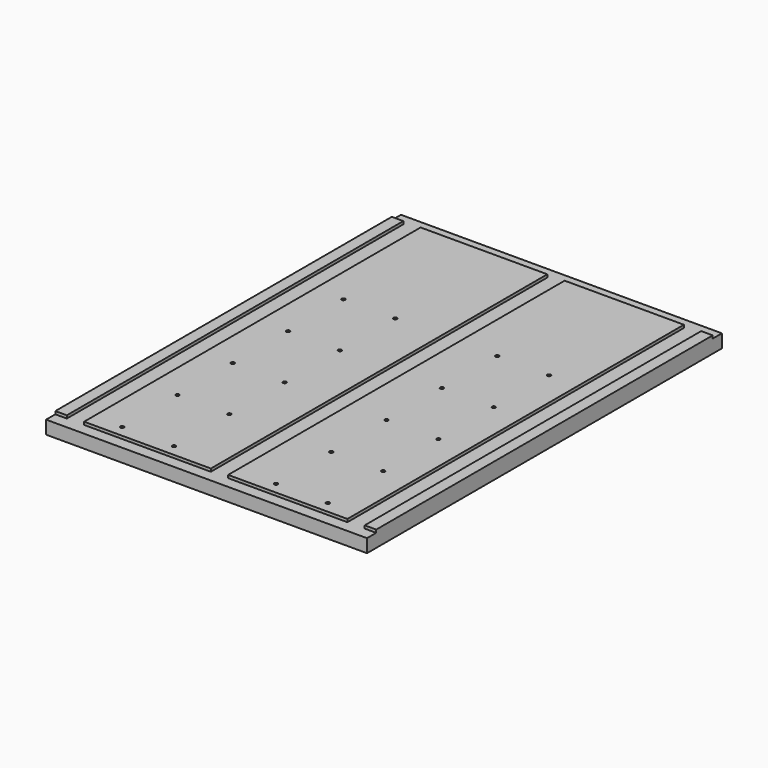
from build123d import *

# Parameters (mm, degrees)
SKETCH_W        = 557
SKETCH_H        = 770
PAD_DEPTH       = 28
SKETCH001_W     = 220
SKETCH001_H     = 730
SKETCH001_W_2   = 207
POCKET_DEPTH    = 5
SKETCH002_R     = 3
POCKET001_DEPTH = 20


with BuildPart() as part:
    # Sketch → Pad (new body)
    with BuildSketch(Plane.XY):
        with Locations((278.5, 385)):
            Rectangle(SKETCH_W, SKETCH_H)
    extrude(amount=PAD_DEPTH)

    # Sketch001 (on Face6 of Pad) → Pocket (cut)
    with BuildSketch(Plane.XY.offset(28)):
        Polygon((0, 770), (557, 770), (557, 750), (537, 750), (537, 20), (557, 20), (557, 0), (0, 0), (0, 20), (20, 20), (20, 750), (0, 750), align=None)
        with Locations((160, 385)):
            Rectangle(SKETCH001_W, SKETCH001_H, mode=Mode.SUBTRACT)
        with Locations((403.5, 385)):
            Rectangle(SKETCH001_W_2, SKETCH001_H, mode=Mode.SUBTRACT)
    extrude(amount=-POCKET_DEPTH, mode=Mode.SUBTRACT)

    # Sketch002 (on Face6 of Pad) → Pocket001 (cut)
    with BuildSketch(Plane.XY.offset(28)):
        with Locations((100, 40)):
            Circle(SKETCH002_R)
        with Locations((190, 40)):
            Circle(SKETCH002_R)
        with Locations((367, 40)):
            Circle(SKETCH002_R)
        with Locations((457, 40)):
            Circle(SKETCH002_R)
        with Locations((100, 160)):
            Circle(SKETCH002_R)
        with Locations((190, 160)):
            Circle(SKETCH002_R)
        with Locations((367, 160)):
            Circle(SKETCH002_R)
        with Locations((457, 160)):
            Circle(SKETCH002_R)
        with Locations((100, 280)):
            Circle(SKETCH002_R)
        with Locations((190, 280)):
            Circle(SKETCH002_R)
        with Locations((367, 280)):
            Circle(SKETCH002_R)
        with Locations((457, 280)):
            Circle(SKETCH002_R)
        with Locations((100, 400)):
            Circle(SKETCH002_R)
        with Locations((190, 400)):
            Circle(SKETCH002_R)
        with Locations((367, 400)):
            Circle(SKETCH002_R)
        with Locations((457, 400)):
            Circle(SKETCH002_R)
        with Locations((100, 520)):
            Circle(SKETCH002_R)
        with Locations((190, 520)):
            Circle(SKETCH002_R)
        with Locations((367, 520)):
            Circle(SKETCH002_R)
        with Locations((457, 520)):
            Circle(SKETCH002_R)
    extrude(amount=-POCKET001_DEPTH, mode=Mode.SUBTRACT)


with BuildPart() as part_1:
    # Clone placement: moved
    add(part.part.moved(Location((-100, -40, -28))))


solid = part_1.part
